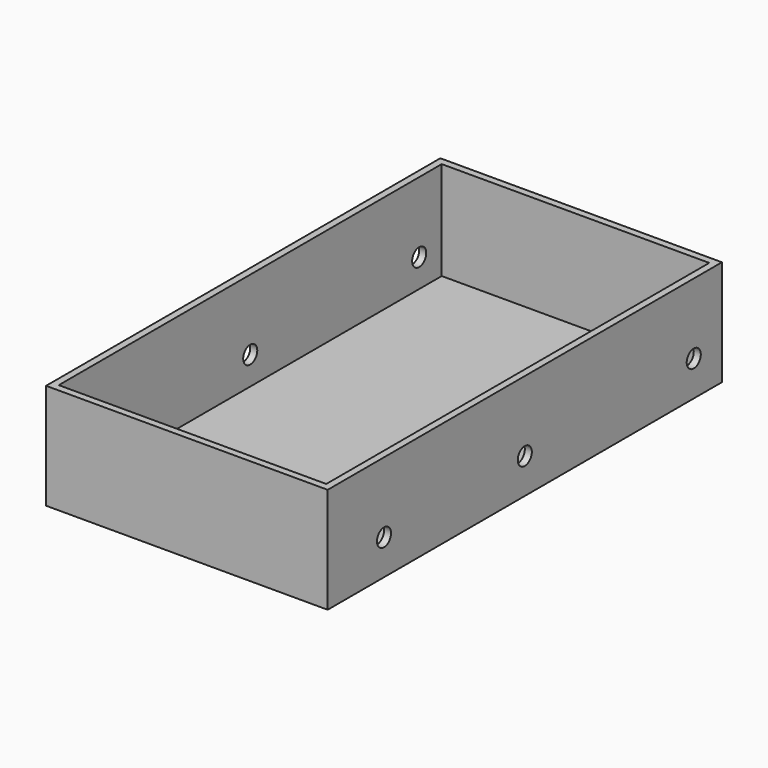
from build123d import *

# Parameters (mm, degrees)
F0_W     = 1016
F0_H     = 381
F1_DEPTH = 1778
F2_T     = -25.4
F3_R     = 31.75
F4_DEPTH = 1016.001


with BuildPart() as f1:
    # F0 (on Front) → F1 (new body)
    with BuildSketch(Plane.XZ):
        with Locations((0, 190.5)):
            Rectangle(F0_W, F0_H)
    extrude(amount=-F1_DEPTH)

    # F2
    f2_openings = [f1.faces().sort_by_distance(p)[0] for p in [
        (0, 889, 381),
    ]]
    offset(amount=F2_T, openings=f2_openings)

    # F3 (on face) → F4 (cut, through all)
    with BuildSketch(Plane.YZ.offset(508)):
        with Locations((254, 127)):
            Circle(F3_R)
        with Locations((1651, 127)):
            Circle(F3_R)
        with Locations((889, 127)):
            Circle(F3_R)
    extrude(amount=-F4_DEPTH, mode=Mode.SUBTRACT)


solid = f1.part
